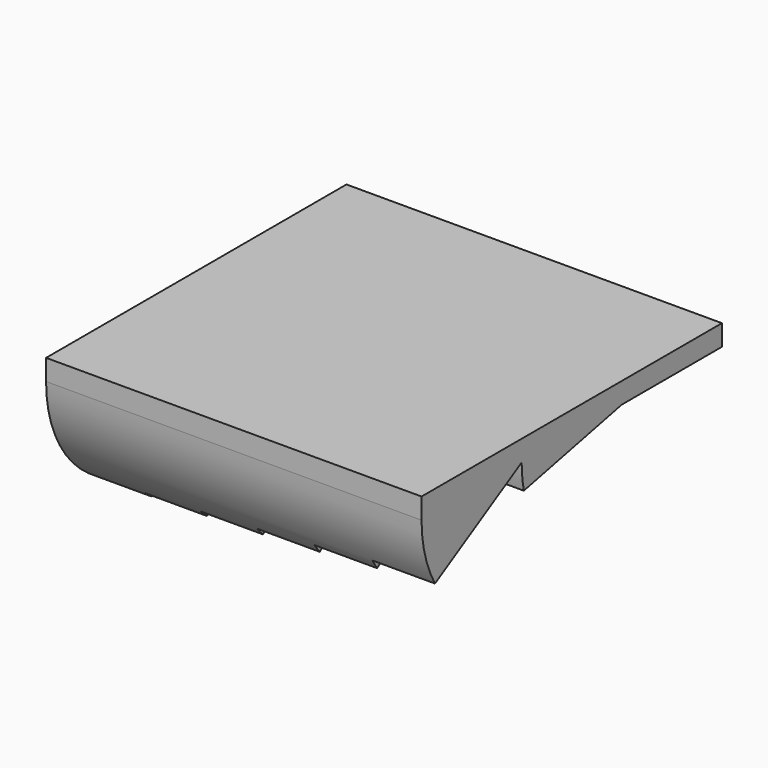
from build123d import *

# Parameters (mm, degrees)
F0_W      = 90
F0_H      = 90
F1_DEPTH  = 5
F2_W      = 15
F2_H      = 30
F3_ANGLE  = 2
F4_W      = 15
F4_H      = 30
F5_ANGLE  = -4
F6_W      = 15
F6_H      = 30
F7_ANGLE  = -6
F8_W      = 15
F8_H      = 30
F9_ANGLE  = -8
F10_W     = 15
F10_H     = 30
F11_ANGLE = -10
F12_W     = 15
F12_H     = 30
F13_ANGLE = -12
F14_W     = 15
F14_H     = 30
F15_ANGLE = -14
F16_W     = 15
F16_H     = 30
F17_ANGLE = -16
F18_W     = 15
F18_H     = 30
F19_ANGLE = -18
F20_W     = 15
F20_H     = 30
F21_ANGLE = -20
F22_W     = 15
F22_H     = 30
F23_ANGLE = -25
F24_W     = 15
F24_H     = 30
F25_ANGLE = -30
F26_W     = 15
F26_H     = 30
F27_ANGLE = -35
F28_W     = 15
F28_H     = 30
F29_ANGLE = -40
F30_W     = 15
F30_H     = 30
F31_ANGLE = -45
F32_W     = 15
F32_H     = 30
F33_ANGLE = -50
F34_W     = 15
F34_H     = 30
F35_ANGLE = -55


with BuildPart() as f1:
    # F0 (on Top) → F1 (new body)
    with BuildSketch(Plane.XY):
        Rectangle(F0_W, F0_H)
    extrude(amount=F1_DEPTH)

    # F2 (on Top) → F3 (revolve)
    with BuildSketch(Plane.XY):
        with Locations((22.5, 30)):
            Rectangle(F2_W, F2_H)
    revolve(axis=Axis((22.5, 45, 0), (1, 0, 0)), revolution_arc=F3_ANGLE)

    # F4 (on Top) → F5 (revolve)
    with BuildSketch(Plane.XY):
        with Locations((7.5, 30)):
            Rectangle(F4_W, F4_H)
    revolve(axis=Axis((7.5, 45, 0), (-1, 0, 0)), revolution_arc=F5_ANGLE)

    # F6 (on Top) → F7 (revolve)
    with BuildSketch(Plane.XY):
        with Locations((-7.5, 30)):
            Rectangle(F6_W, F6_H)
    revolve(axis=Axis((-7.5, 45, 0), (-1, 0, 0)), revolution_arc=F7_ANGLE)

    # F8 (on Top) → F9 (revolve)
    with BuildSketch(Plane.XY):
        with Locations((-22.5, 30)):
            Rectangle(F8_W, F8_H)
    revolve(axis=Axis((-22.5, 45, 0), (-1, 0, 0)), revolution_arc=F9_ANGLE)

    # F10 (on Top) → F11 (revolve)
    with BuildSketch(Plane.XY):
        with Locations((-37.5, 30)):
            Rectangle(F10_W, F10_H)
    revolve(axis=Axis((-37.5, 45, 0), (-1, 0, 0)), revolution_arc=F11_ANGLE)

    # F12 (on Top) → F13 (revolve)
    with BuildSketch(Plane.XY):
        with Locations((37.5, 0)):
            Rectangle(F12_W, F12_H)
    revolve(axis=Axis((37.5, 15, 0), (-1, 0, 0)), revolution_arc=F13_ANGLE)

    # F14 (on Top) → F15 (revolve)
    with BuildSketch(Plane.XY):
        with Locations((22.5, 0)):
            Rectangle(F14_W, F14_H)
    revolve(axis=Axis((22.5, 15, 0), (-1, 0, 0)), revolution_arc=F15_ANGLE)

    # F16 (on Top) → F17 (revolve)
    with BuildSketch(Plane.XY):
        with Locations((7.5, 0)):
            Rectangle(F16_W, F16_H)
    revolve(axis=Axis((7.5, 15, 0), (-1, 0, 0)), revolution_arc=F17_ANGLE)

    # F18 (on Top) → F19 (revolve)
    with BuildSketch(Plane.XY):
        with Locations((-7.5, 0)):
            Rectangle(F18_W, F18_H)
    revolve(axis=Axis((-7.5, 15, 0), (-1, 0, 0)), revolution_arc=F19_ANGLE)

    # F20 (on Top) → F21 (revolve)
    with BuildSketch(Plane.XY):
        with Locations((-22.5, 0)):
            Rectangle(F20_W, F20_H)
    revolve(axis=Axis((-22.5, 15, 0), (-1, 0, 0)), revolution_arc=F21_ANGLE)

    # F22 (on Top) → F23 (revolve)
    with BuildSketch(Plane.XY):
        with Locations((-37.5, 0)):
            Rectangle(F22_W, F22_H)
    revolve(axis=Axis((-37.5, 15, 0), (-1, 0, 0)), revolution_arc=F23_ANGLE)

    # F24 (on Top) → F25 (revolve)
    with BuildSketch(Plane.XY):
        with Locations((37.5, -30)):
            Rectangle(F24_W, F24_H)
    revolve(axis=Axis((37.5, -15, 0), (-1, 0, 0)), revolution_arc=F25_ANGLE)

    # F26 (on Top) → F27 (revolve)
    with BuildSketch(Plane.XY):
        with Locations((22.5, -30)):
            Rectangle(F26_W, F26_H)
    revolve(axis=Axis((22.5, -15, 0), (-1, 0, 0)), revolution_arc=F27_ANGLE)

    # F28 (on Top) → F29 (revolve)
    with BuildSketch(Plane.XY):
        with Locations((7.5, -30)):
            Rectangle(F28_W, F28_H)
    revolve(axis=Axis((7.5, -15, 0), (-1, 0, 0)), revolution_arc=F29_ANGLE)

    # F30 (on Top) → F31 (revolve)
    with BuildSketch(Plane.XY):
        with Locations((-7.5, -30)):
            Rectangle(F30_W, F30_H)
    revolve(axis=Axis((-7.5, -15, 0), (-1, 0, 0)), revolution_arc=F31_ANGLE)

    # F32 (on Top) → F33 (revolve)
    with BuildSketch(Plane.XY):
        with Locations((-22.5, -30)):
            Rectangle(F32_W, F32_H)
    revolve(axis=Axis((-22.5, -15, 0), (-1, 0, 0)), revolution_arc=F33_ANGLE)

    # F34 (on Top) → F35 (revolve)
    with BuildSketch(Plane.XY):
        with Locations((-37.5, -30)):
            Rectangle(F34_W, F34_H)
    revolve(axis=Axis((-37.5, -15, 0), (-1, 0, 0)), revolution_arc=F35_ANGLE)


solid = f1.part
